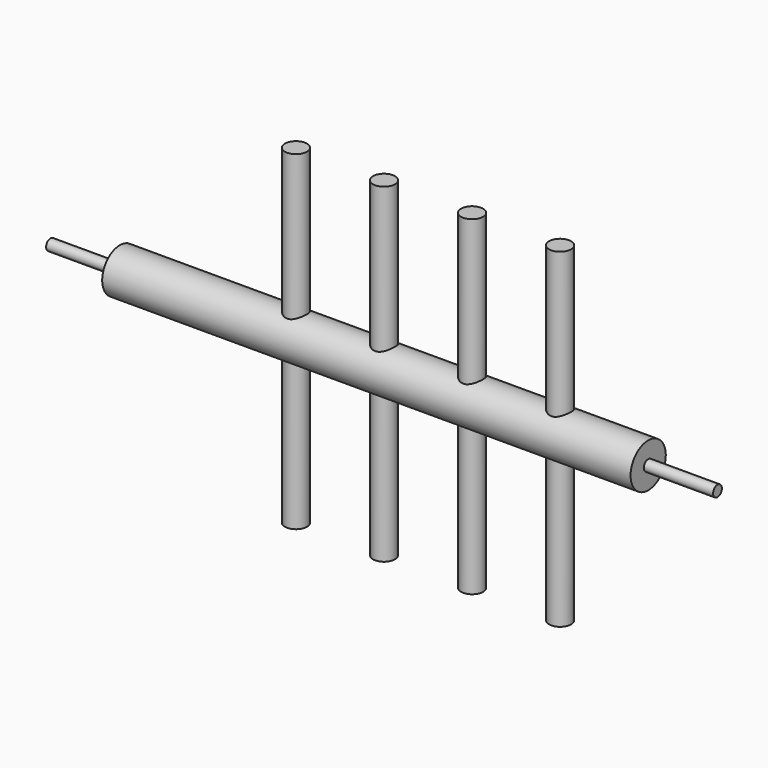
from build123d import *

# Parameters (mm, degrees)
F0_R          = 12.7
F1_DEPTH      = 304.8
F2_R          = 3.175
F3_DEPTH      = 40
F4_R          = 3.175
F5_DEPTH      = 40
F7_DEPTH      = 95.25
F7_DEPTH_BACK = 95.25


with BuildPart() as f1:
    # F0 (on Right) → F1 (new body)
    with BuildSketch(Plane.YZ):
        Circle(F0_R)
    extrude(amount=F1_DEPTH)

    # F2 (on face) → F3 (join)
    with BuildSketch(Plane(origin=(0, 0, 0), x_dir=(0, -1, 0), z_dir=(-1, 0, 0))):
        Circle(F2_R)
    extrude(amount=F3_DEPTH)

    # F4 (on face) → F5 (join)
    with BuildSketch(Plane.YZ.offset(304.8)):
        Circle(F4_R)
    extrude(amount=F5_DEPTH)

    # F6 (on Top) → F7 (join, two sides)
    with BuildSketch(Plane.XY) as f7_sk:
        with BuildLine():
            Line((203.2, 0), (209.55, 0))
            ThreePointArc((209.55, 0), (203.2, 6.35), (196.85, 0))
            Line((196.85, 0), (203.2, 0))
        make_face()
        with BuildLine():
            ThreePointArc((95.25, 0), (101.6, -6.35), (107.95, 0))
            Line((107.95, 0), (101.6, 0))
            Line((101.6, 0), (95.25, 0))
        make_face()
        with BuildLine():
            Line((101.6, 0), (107.95, 0))
            ThreePointArc((107.95, 0), (101.6, 6.35), (95.25, 0))
            Line((95.25, 0), (101.6, 0))
        make_face()
        with BuildLine():
            ThreePointArc((146.05, 0), (152.4, -6.35), (158.75, 0))
            Line((158.75, 0), (152.4, 0))
            Line((152.4, 0), (146.05, 0))
        make_face()
        with BuildLine():
            Line((152.4, 0), (158.75, 0))
            ThreePointArc((158.75, 0), (152.4, 6.35), (146.05, 0))
            Line((146.05, 0), (152.4, 0))
        make_face()
        with BuildLine():
            ThreePointArc((196.85, 0), (203.2, -6.35), (209.55, 0))
            Line((209.55, 0), (203.2, 0))
            Line((203.2, 0), (196.85, 0))
        make_face()
        with BuildLine():
            ThreePointArc((260.35, 0), (254, 6.35), (247.65, 0))
            ThreePointArc((247.65, 0), (254, -6.35), (260.35, 0))
        make_face()
    extrude(amount=F7_DEPTH)
    extrude(f7_sk.sketch, amount=-F7_DEPTH_BACK)


solid = f1.part
